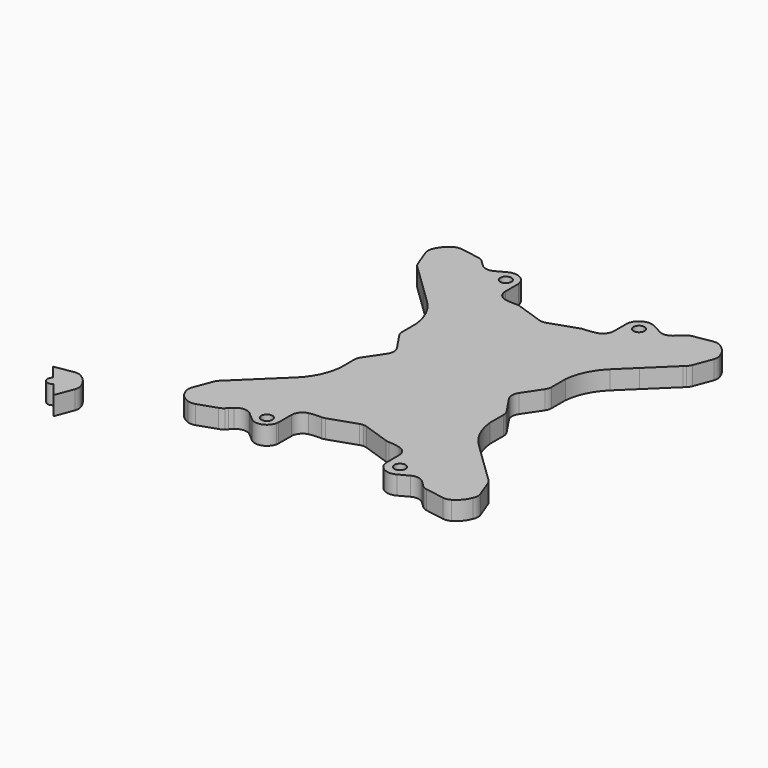
from build123d import *

# Parameters (mm, degrees)
F0_R     = 1.5
F1_DEPTH = 5


with BuildPart() as f1:
    # F0 (on Top) → F1 (new body)
    with BuildSketch(Plane.XY):
        with BuildLine():
            ThreePointArc((28.5921836631, 44.5382779555), (27.8455318059, 44.3096061199), (27.18318982, 43.8959844353))
            Line((27.18318982, 43.8959844353), (25.36414196, 42.1403102047))
            ThreePointArc((25.36414196, 42.1403102047), (23.7475314323, 41.4705011282), (22.0322211549, 41.8166000296))
            Line((22.0322211549, 41.8166000296), (19.5288235349, 43.1681490616))
            ThreePointArc((19.5288235349, 43.1681490616), (16.2333532615, 43.1841726269), (14.3853910977, 40.4555434988))
            Line((14.3853910977, 40.4555434988), (14.3853910977, 36.0804238247))
            ThreePointArc((14.3853910977, 36.0804238247), (13.7422335304, 34.2242735755), (12.0885285994, 33.1639880455))
            ThreePointArc((12.0885285994, 33.1639880455), (10.5570993875, 32.8779888748), (9.004266017, 32.7523724736))
            ThreePointArc((9.004266017, 32.7523724736), (8.5588712997, 32.7061238162), (8.125322134, 32.5940947422))
            Line((8.125322134, 32.5940947422), (0.9652288681, 30.1610109355))
            ThreePointArc((0.9652288681, 30.1610109355), (0.4891607679, 30.0416404555), (0, 30.0014920975))
            ThreePointArc((0, 30.0014920975), (-0.4891607679, 30.0416404555), (-0.9652288681, 30.1610109355))
            Line((-0.9652288681, 30.1610109355), (-8.125322134, 32.5940947422))
            ThreePointArc((-8.125322134, 32.5940947422), (-8.6272095116, 32.7173849963), (-9.1428099079, 32.7527071954))
            ThreePointArc((-9.1428099079, 32.7527071954), (-10.7529566618, 32.7804199642), (-12.3508532478, 32.9805875619))
            ThreePointArc((-12.3508532478, 32.9805875619), (-14.0045581788, 34.0408730919), (-14.6477157461, 35.8970233411))
            Line((-14.6477157461, 35.8970233411), (-14.6477157461, 40.2721430152))
            ThreePointArc((-14.6477157461, 40.2721430152), (-16.4956779099, 43.0007721433), (-19.7911481833, 42.984748578))
            Line((-19.7911481833, 42.984748578), (-22.2945458033, 41.633199546))
            ThreePointArc((-22.2945458033, 41.633199546), (-23.9381180371, 41.3319035535), (-25.4879227175, 41.9565749993))
            Line((-25.4879227175, 41.9565749993), (-27.3069705775, 43.7122492299))
            ThreePointArc((-27.3069705775, 43.7122492299), (-27.9693125633, 44.1258709145), (-28.7159644205, 44.3545427501))
            Line((-28.7159644205, 44.3545427501), (-33.7380945968, 45.199445495))
            ThreePointArc((-33.7380945968, 45.199445495), (-34.7875797232, 45.1898414822), (-35.7695334382, 44.819330795))
            ThreePointArc((-35.7695334382, 44.819330795), (-37.5533448102, 43.288139802), (-38.7133397674, 41.2434049616))
            ThreePointArc((-38.7133397674, 41.2434049616), (-38.8883124755, 40.2085639984), (-38.6961274951, 39.1767809781))
            Line((-38.6961274951, 39.1767809781), (-36.8579549956, 34.2929692104))
            ThreePointArc((-36.8579549956, 34.2929692104), (-36.5570763842, 33.7017715683), (-36.1336296608, 33.1911489451))
            Line((-36.1336296608, 33.1911489451), (-35.5914095939, 32.6678192297))
            Line((-35.5914095939, 32.6678192297), (-29.0124277762, 26.3180419121))
            Line((-29.0124277762, 26.3180419121), (-24.5740902909, 22.0343312296))
            ThreePointArc((-24.5740902909, 22.0343312296), (-21.469677626, 17.735489268), (-20.0549770624, 12.6251035174))
            Line((-20.0549770624, 12.6251035174), (-20.0549770624, 8.0847151044))
            ThreePointArc((-20.0549770624, 8.0847151044), (-19.9248548926, 7.2107578743), (-19.5457762357, 6.412614785))
            Line((-19.5457762357, 6.412614785), (-16.3634178036, 1.6721003194))
            ThreePointArc((-16.3634178036, 1.6721003194), (-15.8542169769, 0), (-16.3634178036, -1.6721003194))
            Line((-16.3634178036, -1.6721003194), (-19.5457762357, -6.412614785))
            ThreePointArc((-19.5457762357, -6.412614785), (-19.9248548926, -7.2107578743), (-20.0549770624, -8.0847151044))
            Line((-20.0549770624, -8.0847151044), (-20.0549770624, -12.6251035174))
            ThreePointArc((-20.0549770624, -12.6251035174), (-21.469677626, -17.735489268), (-24.5740902909, -22.0343312296))
            Line((-24.5740902909, -22.0343312296), (-29.0124277762, -26.3180419121))
            Line((-29.0124277762, -26.3180419121), (-35.5914095939, -32.6678192297))
            Line((-35.5914095939, -32.6678192297), (-36.1336296608, -33.1911489451))
            ThreePointArc((-36.1336296608, -33.1911489451), (-36.5570763842, -33.7017715683), (-36.8579549956, -34.2929692104))
            Line((-36.8579549956, -34.2929692104), (-38.6961274951, -39.1767809781))
            ThreePointArc((-38.6961274951, -39.1767809781), (-38.8883124755, -40.2085639984), (-38.7133397674, -41.2434049616))
            ThreePointArc((-38.7133397674, -41.2434049616), (-38.2218494121, -42.3159832036), (-37.5533448102, -43.288139802))
            ThreePointArc((-37.5533448102, -43.288139802), (-36.6054945104, -43.9906827997), (-35.5510113307, -44.5198822689))
            ThreePointArc((-35.5510113307, -44.5198822689), (-34.5230226232, -44.7314253731), (-33.4850758878, -44.5759331154))
            Line((-33.4850758878, -44.5759331154), (-28.5391782864, -42.9120243328))
            ThreePointArc((-28.5391782864, -42.9120243328), (-27.9376873831, -42.632290023), (-27.4123763915, -42.2272086078))
            Line((-27.4123763915, -42.2272086078), (-26.8701563245, -41.7038788924))
            Line((-26.8701563245, -41.7038788924), (-26.0160654742, -40.8795436292))
            ThreePointArc((-26.0160654742, -40.8795436292), (-24.0158410052, -40.0392849725), (-21.9721238673, -40.7674008953))
            Line((-21.9721238673, -40.7674008953), (-20.053753454, -42.4237275088))
            ThreePointArc((-20.053753454, -42.4237275088), (-16.9494483318, -43.1542429501), (-14.7555353203, -40.8397000581))
            ThreePointArc((-14.7555353203, -40.8397000581), (-14.6898954535, -40.5581499156), (-14.6477157461, -40.2721430152))
            Line((-14.6477157461, -40.2721430152), (-14.6477157461, -35.8970233411))
            ThreePointArc((-14.6477157461, -35.8970233411), (-14.0045581788, -34.0408730919), (-12.3508532478, -32.9805875619))
            ThreePointArc((-12.3508532478, -32.9805875619), (-10.7529566618, -32.7804199642), (-9.1428099079, -32.7527071954))
            ThreePointArc((-9.1428099079, -32.7527071954), (-8.6272095116, -32.7173849963), (-8.125322134, -32.5940947422))
            Line((-8.125322134, -32.5940947422), (-0.9652288681, -30.1610109355))
            ThreePointArc((-0.9652288681, -30.1610109355), (-0.4891607679, -30.0416404555), (0, -30.0014920975))
            ThreePointArc((0, -30.0014920975), (0.4891607679, -30.0416404555), (0.9652288681, -30.1610109355))
            Line((0.9652288681, -30.1610109355), (8.125322134, -32.5940947422))
            ThreePointArc((8.125322134, -32.5940947422), (8.5588712997, -32.7061238162), (9.004266017, -32.7523724736))
            ThreePointArc((9.004266017, -32.7523724736), (10.5570993875, -32.8779888748), (12.0885285994, -33.1639880455))
            ThreePointArc((12.0885285994, -33.1639880455), (13.7422335304, -34.2242735755), (14.3853910977, -36.0804238247))
            Line((14.3853910977, -36.0804238247), (14.3853910977, -40.4555434988))
            ThreePointArc((14.3853910977, -40.4555434988), (16.2333532615, -43.1841726269), (19.5288235349, -43.1681490616))
            Line((19.5288235349, -43.1681490616), (22.0322211549, -41.8166000296))
            ThreePointArc((22.0322211549, -41.8166000296), (23.7475314323, -41.4705011282), (25.36414196, -42.1403102047))
            Line((25.36414196, -42.1403102047), (27.18318982, -43.8959844353))
            ThreePointArc((27.18318982, -43.8959844353), (27.8455318059, -44.3096061199), (28.5921836631, -44.5382779555))
            Line((28.5921836631, -44.5382779555), (33.6143138393, -45.3831807004))
            ThreePointArc((33.6143138393, -45.3831807004), (34.6637989657, -45.3735766876), (35.6457526807, -45.0030660004))
            ThreePointArc((35.6457526807, -45.0030660004), (37.4295640528, -43.4718750074), (38.58955901, -41.427140167))
            ThreePointArc((38.58955901, -41.427140167), (38.8596560565, -40.3304581985), (38.705109006, -39.2116289157))
            Line((38.705109006, -39.2116289157), (36.8669365064, -34.327817148))
            ThreePointArc((36.8669365064, -34.327817148), (36.566057895, -33.7366195059), (36.1426111717, -33.2259968827))
            Line((36.1426111717, -33.2259968827), (35.6003911047, -32.7026671673))
            Line((35.6003911047, -32.7026671673), (29.021409287, -26.3528898497))
            Line((29.021409287, -26.3528898497), (24.5740902909, -22.0343312296))
            ThreePointArc((24.5740902909, -22.0343312296), (21.469677626, -17.735489268), (20.0549770624, -12.6251035174))
            Line((20.0549770624, -12.6251035174), (20.0549770624, -8.0847151044))
            ThreePointArc((20.0549770624, -8.0847151044), (19.9248548926, -7.2107578743), (19.5457762357, -6.412614785))
            Line((19.5457762357, -6.412614785), (16.3634178036, -1.6721003194))
            ThreePointArc((16.3634178036, -1.6721003194), (15.8542169769, 0), (16.3634178036, 1.6721003194))
            Line((16.3634178036, 1.6721003194), (19.5457762357, 6.412614785))
            ThreePointArc((19.5457762357, 6.412614785), (19.9248548926, 7.2107578743), (20.0549770624, 8.0847151044))
            Line((20.0549770624, 8.0847151044), (20.0549770624, 12.6251035174))
            ThreePointArc((20.0549770624, 12.6251035174), (21.469677626, 17.735489268), (24.5740902909, 22.0343312296))
            Line((24.5740902909, 22.0343312296), (29.021409287, 26.3528898497))
            Line((29.021409287, 26.3528898497), (35.6003911047, 32.7026671673))
            Line((35.6003911047, 32.7026671673), (36.1426111717, 33.2259968827))
            ThreePointArc((36.1426111717, 33.2259968827), (36.566057895, 33.7366195059), (36.8669365064, 34.327817148))
            Line((36.8669365064, 34.327817148), (38.705109006, 39.2116289157))
            ThreePointArc((38.705109006, 39.2116289157), (38.8596560565, 40.3304581985), (38.58955901, 41.427140167))
            ThreePointArc((38.58955901, 41.427140167), (37.4295640528, 43.4718750074), (35.6457526807, 45.0030660004))
            ThreePointArc((35.6457526807, 45.0030660004), (34.6637989657, 45.3735766876), (33.6143138393, 45.3831807004))
            Line((33.6143138393, 45.3831807004), (28.5921836631, 44.5382779555))
        make_face()
        with Locations((-17.8660744539, -40.0883332402)):
            Circle(F0_R, mode=Mode.SUBTRACT)
        with Locations((17.8660744539, -40.0883332402)):
            Circle(F0_R, mode=Mode.SUBTRACT)
        with Locations((-17.8660744539, 40.0883332402)):
            Circle(F0_R, mode=Mode.SUBTRACT)
        with Locations((17.8660744539, 40.0883332402)):
            Circle(F0_R, mode=Mode.SUBTRACT)
    extrude(amount=F1_DEPTH)


with BuildPart() as f1b:
    # F0 (on Top) → F1, piece 2 (new body)
    with BuildSketch(Plane.XY):
        with BuildLine():
            ThreePointArc((-60.3096856504, -49.5056065138), (-61.2916393654, -49.1350958266), (-62.3411244918, -49.1254918138))
            Line((-62.3411244918, -49.1254918138), (-67.3632546681, -49.9703945587))
            Line((-67.3632546681, -49.9703945587), (-64.2358401806, -53.8351387591))
            ThreePointArc((-64.2358401806, -53.8351387591), (-62.646260619, -53.6474141403), (-61.7922593806, -55.0011813286))
            ThreePointArc((-61.7922593806, -55.0011813286), (-61.9384921923, -55.6471800901), (-62.3486785805, -56.167223898))
            Line((-62.3486785805, -56.167223898), (-59.2212640931, -60.0319680984))
            Line((-59.2212640931, -60.0319680984), (-57.3830915935, -55.1481563307))
            ThreePointArc((-57.3830915935, -55.1481563307), (-57.1909066131, -54.1163733104), (-57.3658793212, -53.0815323472))
            ThreePointArc((-57.3658793212, -53.0815323472), (-58.5258742784, -51.0367975068), (-60.3096856504, -49.5056065138))
        make_face()
        with BuildLine():
            ThreePointArc((-61.7922593806, -55.0011813286), (-62.646260619, -53.6474141403), (-64.2358401806, -53.8351387591))
            Line((-64.2358401806, -53.8351387591), (-63.2922593806, -55.0011813286))
            Line((-63.2922593806, -55.0011813286), (-62.3486785805, -56.167223898))
            ThreePointArc((-62.3486785805, -56.167223898), (-61.9384921923, -55.6471800901), (-61.7922593806, -55.0011813286))
        make_face()
        with BuildLine():
            Line((-63.2922593806, -55.0011813286), (-64.2358401806, -53.8351387591))
            ThreePointArc((-64.2358401806, -53.8351387591), (-64.7894333017, -54.909147368), (-64.3715536264, -56.0428741484))
            Line((-64.3715536264, -56.0428741484), (-63.2922593806, -55.0011813286))
        make_face()
        with BuildLine():
            Line((-62.3486785805, -56.167223898), (-63.2922593806, -55.0011813286))
            Line((-63.2922593806, -55.0011813286), (-64.3715536264, -56.0428741484))
            ThreePointArc((-64.3715536264, -56.0428741484), (-63.3842933411, -56.4983552497), (-62.3486785805, -56.167223898))
        make_face()
    extrude(amount=F1_DEPTH)


solid = Compound([f1.part, f1b.part])
